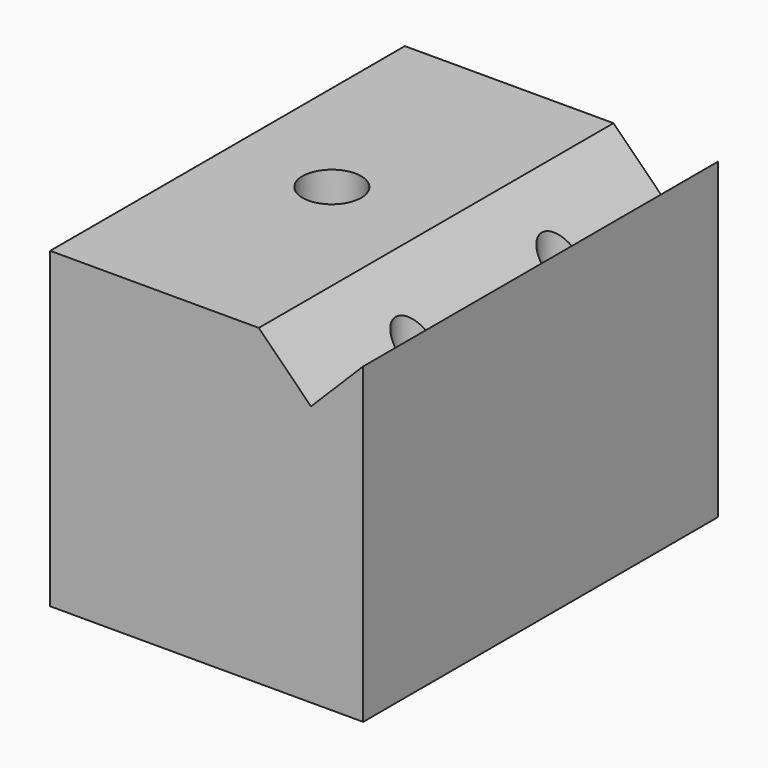
from build123d import *

# Parameters (mm, degrees)
F0_W      = 76.2
F0_H      = 76.2
F1_DEPTH  = 53.975
F3_DEPTH  = 107.951
F5_W      = 18.288
F5_H      = 5.08
F6_DEPTH  = 63.5
F4_R      = 4.7625
F7_DEPTH  = 81.281
F8_R      = 7.1501
F9_DEPTH  = 12.7
F10_R     = 7.1501
F11_DEPTH = 12.7
F12_W     = 38.1
F12_H     = 9
F13_DEPTH = 107.951


with BuildPart() as f1:
    # F0 (on Front) → F1 (new body, symmetric)
    with BuildSketch(Plane.XZ):
        with Locations((0, 38.1)):
            Rectangle(F0_W, F0_H)
    extrude(amount=F1_DEPTH, both=True)

    # F2 (on face) → F3 (cut, through all)
    with BuildSketch(Plane.XZ.offset(53.975)):
        Polygon((38.1, 76.2), (12.7, 76.2), (25.4, 63.5), align=None)
    extrude(amount=-F3_DEPTH, mode=Mode.SUBTRACT)

    # F5 (on face) → F6 (join)
    with BuildSketch(Plane.YZ.offset(38.1)):
        with Locations((0, -2.54)):
            Rectangle(F5_W, F5_H)
    extrude(amount=-F6_DEPTH)

    # F4 (on face) → F7 (cut, through all)
    with BuildSketch(Plane.XY.offset(76.2)):
        with Locations((25.4, 22.225)):
            Circle(F4_R)
        with Locations((25.4, -22.225)):
            Circle(F4_R)
        with Locations((-12.7, 0)):
            Circle(F4_R)
    extrude(amount=-F7_DEPTH, mode=Mode.SUBTRACT)

    # F8 (on face) → F9 (cut)
    with BuildSketch(Plane(origin=(0, 0, 0), x_dir=(1, 0, 0), z_dir=(0, 0, -1))):
        with Locations((25.4, -22.225)):
            Circle(F8_R)
        with Locations((25.4, 22.225)):
            Circle(F8_R)
    extrude(amount=-F9_DEPTH, mode=Mode.SUBTRACT)

    # F10 (on face) → F11 (cut)
    with BuildSketch(Plane.XY.offset(76.2)):
        with Locations((-12.7, 0)):
            Circle(F10_R)
    extrude(amount=-F11_DEPTH, mode=Mode.SUBTRACT)

    # F12 (on face) → F13 (cut, through all)
    with BuildSketch(Plane.XZ.offset(53.975)):
        with Locations((19.05, -4.5)):
            Rectangle(F12_W, F12_H)
    extrude(amount=-F13_DEPTH, mode=Mode.SUBTRACT)


solid = f1.part
